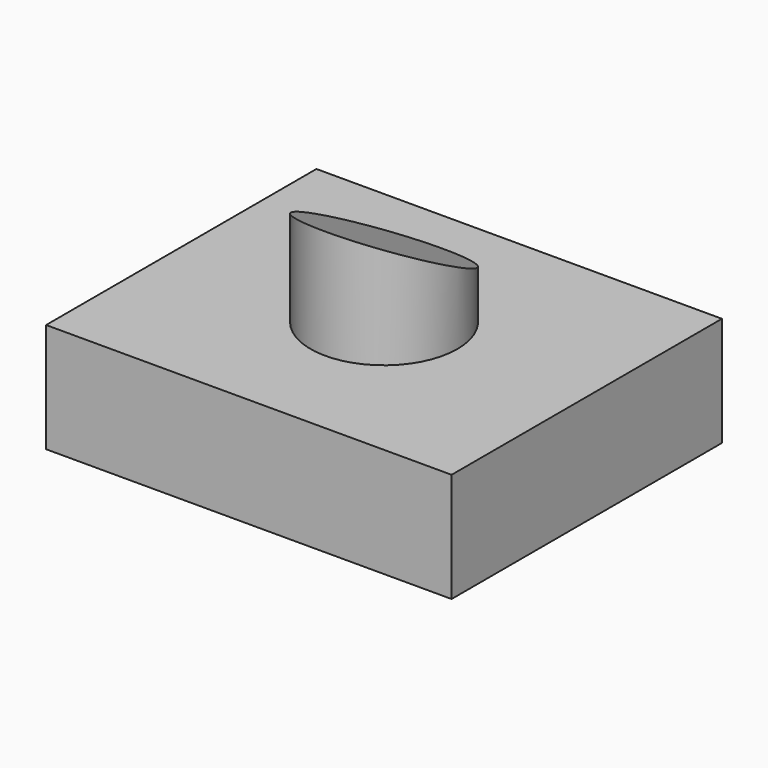
from build123d import *

# Parameters (mm, degrees)
F0_W     = 94.170756
F0_H     = 78.479818
F1_DEPTH = 25.4
F2_R     = 17.056969
F3_DEPTH = 25.4
F5_DEPTH = 94.171757


with BuildPart() as f1:
    # F0 (on Top) → F1 (new body)
    with BuildSketch(Plane.XY):
        Rectangle(F0_W, F0_H)
    extrude(amount=F1_DEPTH)

    # F2 (on face) → F3 (join)
    with BuildSketch(Plane.XY.offset(25.4)):
        Circle(F2_R)
    extrude(amount=F3_DEPTH)

    # F4 (on face) → F5 (cut, through all)
    with BuildSketch(Plane.YZ.offset(47.085378)):
        Polygon((17.056969, 50.8), (-17.056969, 50.8), (17.056969, 33.430997), align=None)
    extrude(amount=-F5_DEPTH, mode=Mode.SUBTRACT)


solid = f1.part
